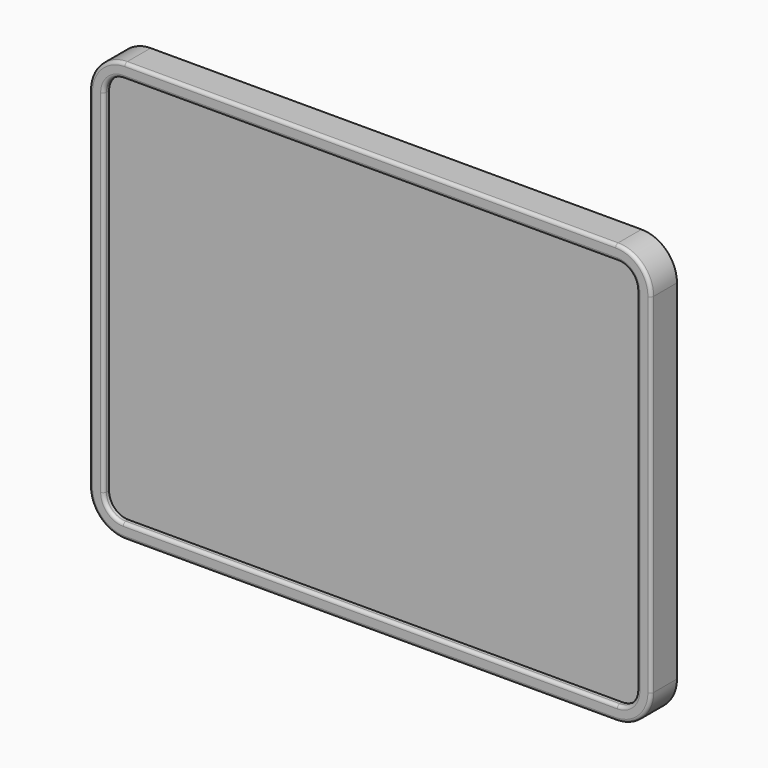
from build123d import *

# Parameters (mm, degrees)
F1_DEPTH = 10
F3_DEPTH = 2
F4_R     = 1


with BuildPart() as f1:
    # F0 (on Front) → F1 (new body)
    with BuildSketch(Plane.XZ):
        with BuildLine():
            ThreePointArc((87, 54), (83.778175, 61.778175), (76, 65))
            Line((76, 65), (-76, 65))
            ThreePointArc((-76, 65), (-83.778175, 61.778175), (-87, 54))
            Line((-87, 54), (-87, -54))
            ThreePointArc((-87, -54), (-83.778175, -61.778175), (-76, -65))
            Line((-76, -65), (76, -65))
            ThreePointArc((76, -65), (83.778175, -61.778175), (87, -54))
            Line((87, -54), (87, 54))
        make_face()
        with BuildLine():
            Line((-76.5, 60.5), (76.5, 60.5))
            ThreePointArc((76.5, 60.5), (80.742641, 58.742641), (82.5, 54.5))
            Line((82.5, 54.5), (82.5, -54.5))
            ThreePointArc((82.5, -54.5), (80.742641, -58.742641), (76.5, -60.5))
            Line((76.5, -60.5), (-76.5, -60.5))
            ThreePointArc((-76.5, -60.5), (-80.742641, -58.742641), (-82.5, -54.5))
            Line((-82.5, -54.5), (-82.5, 54.5))
            ThreePointArc((-82.5, 54.5), (-80.742641, 58.742641), (-76.5, 60.5))
        make_face(mode=Mode.SUBTRACT)
        with BuildLine():
            ThreePointArc((82.5, 54.5), (80.742641, 58.742641), (76.5, 60.5))
            Line((76.5, 60.5), (-76.5, 60.5))
            ThreePointArc((-76.5, 60.5), (-80.742641, 58.742641), (-82.5, 54.5))
            Line((-82.5, 54.5), (-82.5, -54.5))
            ThreePointArc((-82.5, -54.5), (-80.742641, -58.742641), (-76.5, -60.5))
            Line((-76.5, -60.5), (76.5, -60.5))
            ThreePointArc((76.5, -60.5), (80.742641, -58.742641), (82.5, -54.5))
            Line((82.5, -54.5), (82.5, 54.5))
        make_face()
    extrude(amount=F1_DEPTH)

    # F2 (on face) → F3 (cut)
    with BuildSketch(Plane.XZ.offset(10)):
        with BuildLine():
            Line((76.5, 60.5), (-76.5, 60.5))
            ThreePointArc((-76.5, 60.5), (-80.742641, 58.742641), (-82.5, 54.5))
            Line((-82.5, 54.5), (-82.5, -54.5))
            ThreePointArc((-82.5, -54.5), (-80.742641, -58.742641), (-76.5, -60.5))
            Line((-76.5, -60.5), (76.5, -60.5))
            ThreePointArc((76.5, -60.5), (80.742641, -58.742641), (82.5, -54.5))
            Line((82.5, -54.5), (82.5, 54.5))
            ThreePointArc((82.5, 54.5), (80.742641, 58.742641), (76.5, 60.5))
        make_face()
    extrude(amount=-F3_DEPTH, mode=Mode.SUBTRACT)

    # F4
    f4_edges = [f1.edges().sort_by_distance(p)[0] for p in [
        (83.778175, -10, 61.778175),
        (87, -10, 0),
        (0, -10, 65),
        (83.778175, -10, -61.778175),
        (-83.778175, -10, 61.778175),
        (0, -10, -65),
        (-87, -10, 0),
        (-83.778175, -10, -61.778175),
        (0, -10, 60.5),
        (-80.742641, -10, 58.742641),
        (-82.5, -10, 0),
        (-80.742641, -10, -58.742641),
        (0, -10, -60.5),
        (80.742641, -10, -58.742641),
        (82.5, -10, 0),
        (80.742641, -10, 58.742641),
    ]]
    fillet(f4_edges, radius=F4_R)


solid = f1.part
